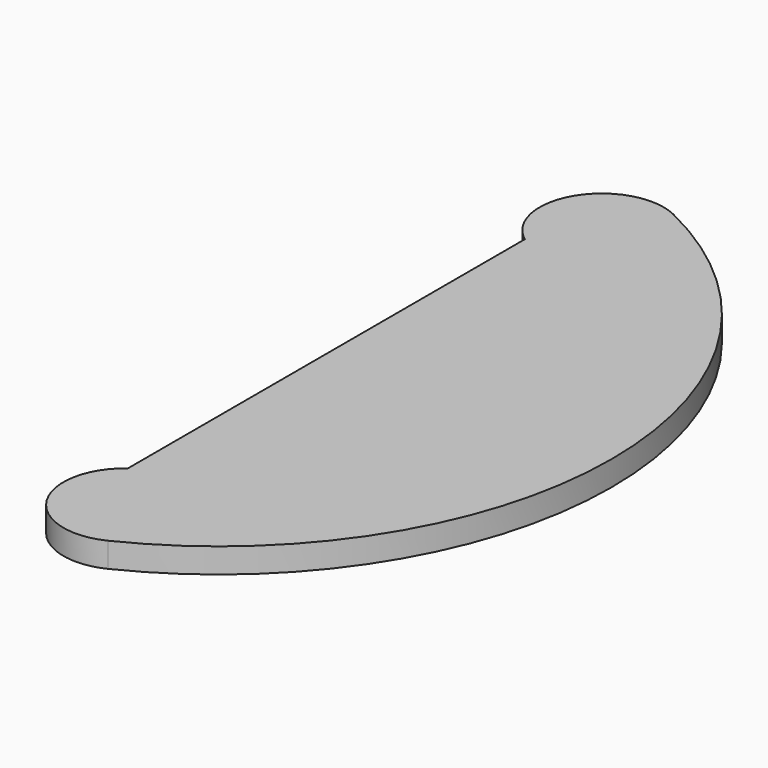
from build123d import *

# Parameters (mm, degrees)
F1_DEPTH = 12.7


with BuildPart() as f1:
    # F0 (on Top) → F1 (new body)
    with BuildSketch(Plane.XY):
        with BuildLine():
            ThreePointArc((13.912921, -180.939326), (127, 0), (13.912921, 180.939326))
            ThreePointArc((13.912921, 180.939326), (-27.091698, 168.956038), (-19.05, 127))
            Line((-19.05, 127), (-19.05, -127))
            ThreePointArc((-19.05, -127), (-27.091698, -168.956038), (13.912921, -180.939326))
        make_face()
    extrude(amount=F1_DEPTH)


solid = f1.part
